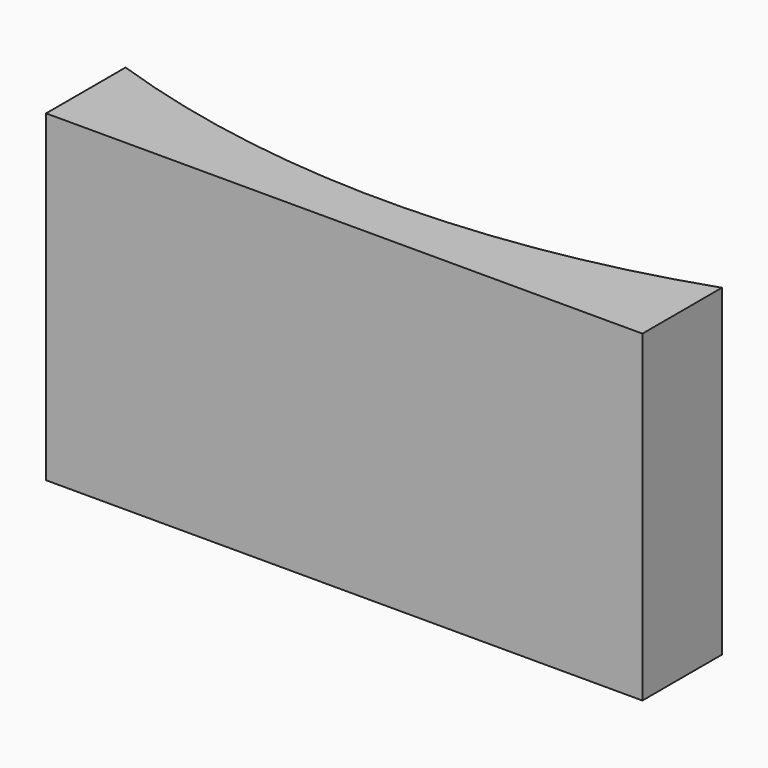
from build123d import *

# Parameters (mm, degrees)
CYLINDER970_R     = 74
CYLINDER970_DEPTH = 40
BOX481_W          = 8
BOX481_H          = 48
BOX481_DEPTH      = 26


with BuildPart() as obj1:
    # Cylinder970 → Cylinder970 (new body)
    with BuildSketch(Plane.XY.offset(42)):
        Circle(CYLINDER970_R)
    extrude(amount=CYLINDER970_DEPTH)


with BuildPart() as cut450:
    # Box481 → Box481 (new body)
    with BuildSketch(Plane(origin=(24, -78, 56), x_dir=(0, 1, 0), z_dir=(0, 0, 1))):
        with Locations((4, 24)):
            Rectangle(BOX481_W, BOX481_H)
    extrude(amount=BOX481_DEPTH)

    # Cut450: cut obj1
    add(obj1.part, mode=Mode.SUBTRACT)


solid = cut450.part
